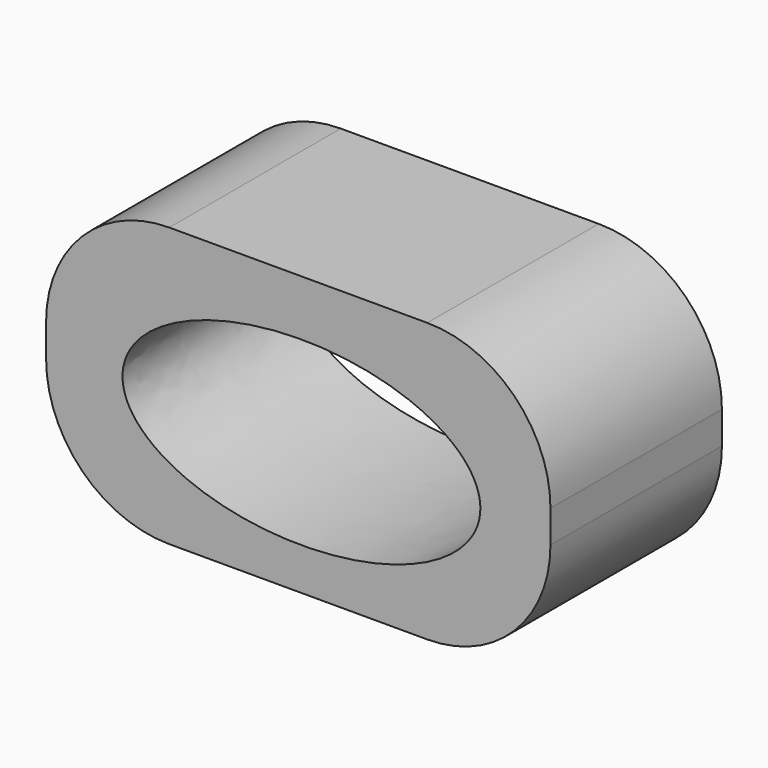
from build123d import *

# Parameters (mm, degrees)
F0_W     = 20.47194
F0_H     = 11.31374
F1_DEPTH = 8.7
F3_DEPTH = 25
F4_R     = 5


with BuildPart() as f1:
    # F0 (on Front) → F1 (new body)
    with BuildSketch(Plane.XZ):
        with Locations((-40.081969, 44.628728)):
            Rectangle(F0_W, F0_H)
    extrude(amount=F1_DEPTH)

    # F2 (on face) → F3 (cut)
    with BuildSketch(Plane.XZ.offset(8.7)):
        with BuildLine():
            add(Edge.make_bspline(
                [(-32.690647, 44.355344), (-32.690647, 50.723211), (-43.584323, 47.539277), (-54.478, 44.355344), (-43.584323, 41.171411), (-32.690647, 37.987477), (-32.690647, 44.355344)],
                knots=[0, 0, 0, 2.094395, 2.094395, 4.18879, 4.18879, 6.283185, 6.283185, 6.283185], degree=2, weights=[1, 0.5, 1, 0.5, 1, 0.5, 1]))
        make_face()
    extrude(amount=-F3_DEPTH, mode=Mode.SUBTRACT)

    # F4
    f4_edges = [f1.edges().sort_by_distance(p)[0] for p in [
        (-50.317939, -4.35, 50.285598),
        (-50.317939, -4.35, 38.971858),
        (-29.845999, -4.35, 38.971858),
        (-29.845999, -4.35, 50.285598),
    ]]
    fillet(f4_edges, radius=F4_R)


solid = f1.part
